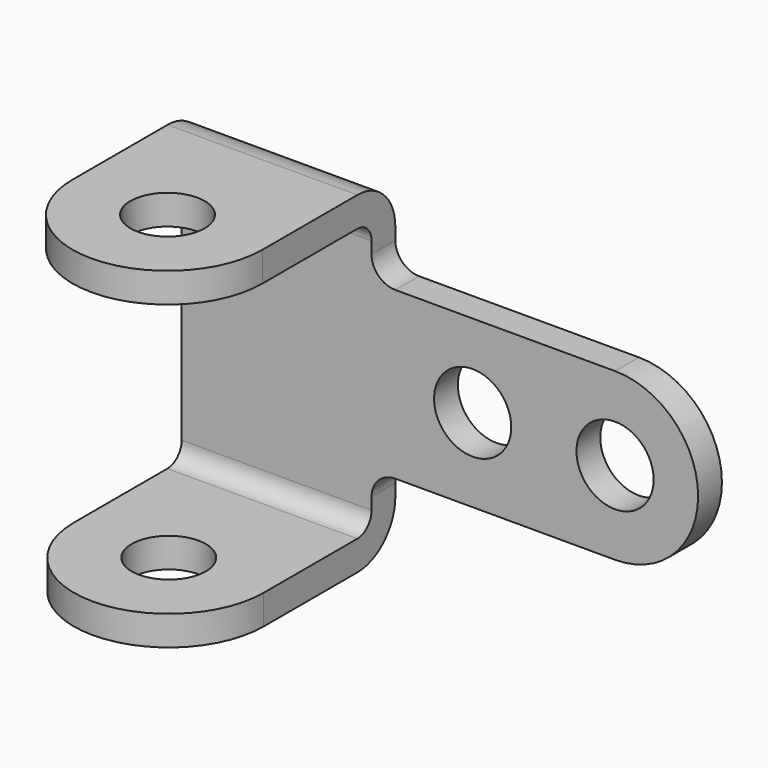
from build123d import *

# Parameters (mm, degrees)
F0_R     = 10.3251
F1_DEPTH = 7.9629
F2_R     = 9.92251
F3_DEPTH = 7.9375
F4_R     = 9.92251
F5_DEPTH = 7.9629
F6_R     = 12.7
F7_R     = 4.7625


with BuildPart() as f1:
    # F0 (on Front) → F1 (new body)
    with BuildSketch(Plane.XZ):
        with BuildLine():
            Line((0, 88.9), (0, 0))
            Line((0, 0), (50.8, 0))
            Line((50.8, 0), (50.8, 15.875))
            ThreePointArc((50.8, 15.875), (52.6598719395, 20.3651280605), (57.15, 22.225))
            Line((57.15, 22.225), (65.1503875852, 22.225))
            Line((65.1503875852, 22.225), (115.9503875852, 22.225))
            ThreePointArc((115.9503875852, 22.225), (138.1753875852, 44.45), (115.9503875852, 66.675))
            Line((115.9503875852, 66.675), (65.1503875852, 66.675))
            Line((65.1503875852, 66.675), (57.15, 66.675))
            ThreePointArc((57.15, 66.675), (52.6598719395, 68.5348719395), (50.8, 73.025))
            Line((50.8, 73.025), (50.8, 88.9))
            Line((50.8, 88.9), (0, 88.9))
        make_face()
        with Locations((77.8503875852, 44.45)):
            Circle(F0_R, mode=Mode.SUBTRACT)
        with Locations((115.9503875852, 44.45)):
            Circle(F0_R, mode=Mode.SUBTRACT)
    extrude(amount=F1_DEPTH)

    # F2 (on Top) → F3 (join)
    with BuildSketch(Plane.XY):
        with BuildLine():
            Line((0, 0), (0, -44.0251193941))
            ThreePointArc((0, -44.0251193941), (25.4, -69.4251193941), (50.8, -44.0251193941))
            Line((50.8, -44.0251193941), (50.8, 0))
            Line((50.8, 0), (0, 0))
        make_face()
        with Locations((25.4, -44.0251193941)):
            Circle(F2_R, mode=Mode.SUBTRACT)
    extrude(amount=F3_DEPTH)

    # F4 (on face) → F5 (join)
    with BuildSketch(Plane.XY.offset(88.9)):
        with BuildLine():
            Line((50.8, -44.45), (50.8, -7.9629))
            Line((50.8, -7.9629), (0, -7.9629))
            Line((0, -7.9629), (0, -44.45))
            ThreePointArc((0, -44.45), (25.4, -69.85), (50.8, -44.45))
        make_face()
        with Locations((25.4, -44.45)):
            Circle(F4_R, mode=Mode.SUBTRACT)
    extrude(amount=-F5_DEPTH)

    # F6
    f6_edges = [f1.edges().sort_by_distance(p)[0] for p in [
        (25.4, 0, 0),
        (25.4, 0, 88.9),
    ]]
    fillet(f6_edges, radius=F6_R)

    # F7
    f7_edges = [f1.edges().sort_by_distance(p)[0] for p in [
        (25.4, -7.9629, 7.9375),
        (25.4, -7.9629, 80.9371),
    ]]
    fillet(f7_edges, radius=F7_R)


solid = f1.part
